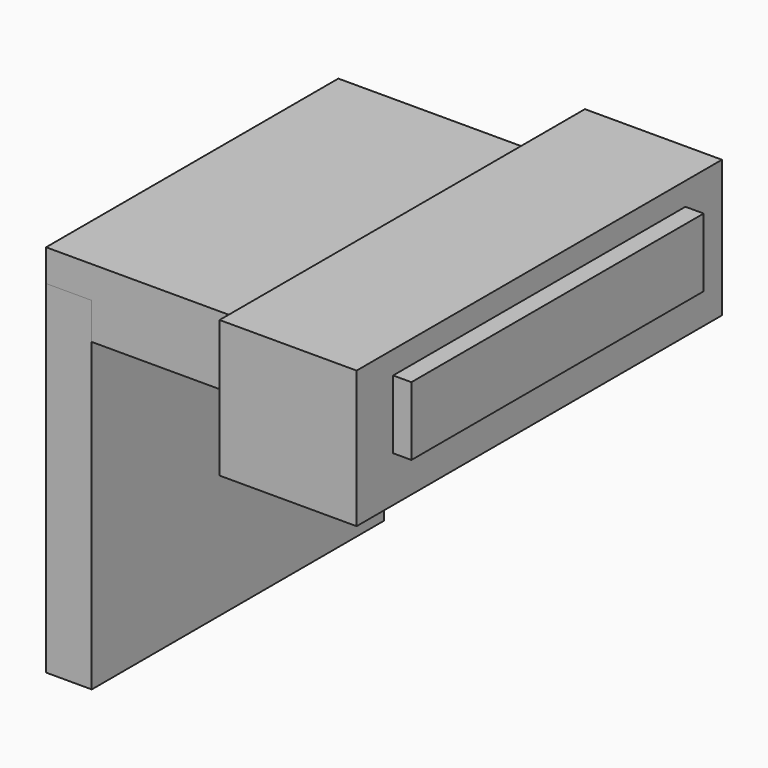
from build123d import *

# Parameters (mm, degrees)
BOX_W        = 30
BOX_H        = 100
BOX_DEPTH    = 30
BOX001_W     = 30
BOX001_H     = 80
BOX001_DEPTH = 15
BOX002_W     = 50
BOX002_H     = 80
BOX002_DEPTH = 15
BOX003_W     = 10
BOX003_H     = 80
BOX003_DEPTH = 75


with BuildPart() as cube:
    # Box → Box (new body)
    with BuildSketch(Plane.XY):
        with Locations((15, 50)):
            Rectangle(BOX_W, BOX_H)
    extrude(amount=BOX_DEPTH)


with BuildPart() as cube001:
    # Box001 → Box001 (new body)
    with BuildSketch(Plane(origin=(4, 10, 10), x_dir=(1, 0, 0), z_dir=(0, 0, 1))):
        with Locations((15, 40)):
            Rectangle(BOX001_W, BOX001_H)
    extrude(amount=BOX001_DEPTH)


with BuildPart() as cube002:
    # Box002 → Box002 (new body)
    with BuildSketch(Plane(origin=(-46, 10, 10), x_dir=(1, 0, 0), z_dir=(0, 0, 1))):
        with Locations((25, 40)):
            Rectangle(BOX002_W, BOX002_H)
    extrude(amount=BOX002_DEPTH)


with BuildPart() as cube003:
    # Box003 → Box003 (new body)
    with BuildSketch(Plane(origin=(-46, 10, -57), x_dir=(1, 0, 0), z_dir=(0, 0, 1))):
        with Locations((5, 40)):
            Rectangle(BOX003_W, BOX003_H)
    extrude(amount=BOX003_DEPTH)


solid = Compound([cube.part, cube001.part, cube002.part, cube003.part])
